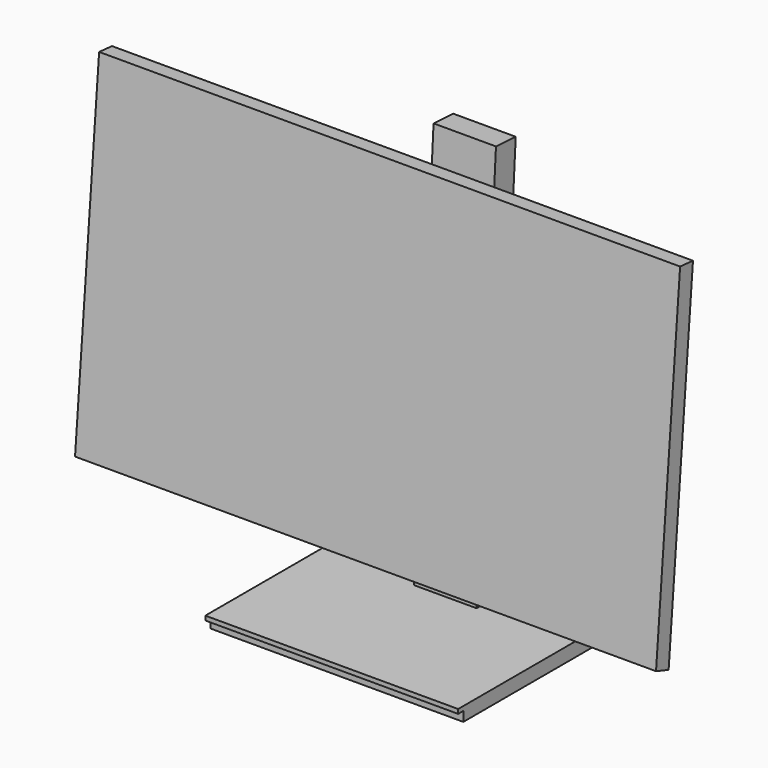
from build123d import *

# Parameters (mm, degrees)
PAD_DEPTH         = 270
PAD001_DEPTH      = 29
PAD002_DEPTH      = 117.5
POCKET_DEPTH      = 341.0745213347
POCKET_DEPTH_BACK = 71.6303346662


with BuildPart() as part:
    # Sketch001 → Pad (new body, symmetric)
    with BuildSketch(Plane.YZ):
        Polygon((-24.8576477137, 122.9970951405), (-9.9147272423, 121.6897589993), (12.9476758379, 58.8758227821), (22.9096228188, 58.0042653546), (5.6527857547, -139.2422848675), (-4.3091612262, -138.3707274401), (-38.1967657639, -201.5754205315), (-52.8330949144, -196.7637295572), align=None)
    extrude(amount=PAD_DEPTH, both=True)

    # Sketch002 → Pad001 (join, symmetric)
    with BuildSketch(Plane.YZ):
        with BuildLine():
            Line((62.4443669874, 107.4083042285), (85.4014673511, 106.0041878192))
            Line((85.4014673511, 106.0041878192), (62.9356048023, -261.309418))
            Line((62.9356048023, -261.309418), (39.892625, -261.309418))
            Line((39.892625, -261.309418), (52.1882123456, -60.2783419063))
            Line((34.8975714525, -60.2783419063), (52.1882123456, -60.2783419063))
            ThreePointArc((26.8824790431, -57.7511929769), (30.6955425365, -59.6315877978), (34.8975714525, -60.2783419063))
            Line((26.8824790431, -57.7511929769), (25.6252451745, -59.5467090202))
            Line((25.6252451745, -59.5467090202), (12.6252451745, -59.5467090202))
            Line((15.0656059715, -31.6532574736), (12.6252451745, -59.5467090202))
            Line((15.0656059715, -31.6532574736), (28.0656059715, -31.6532574736))
            Line((28.0656059715, -31.6532574736), (28.9919515436, -33.6398119639))
            ThreePointArc((34.8975714525, -32.3305675505), (31.8730687065, -32.6618044727), (28.9919515436, -33.6398119639))
            Line((34.8975714525, -32.3305675505), (53.8975714525, -32.3305675505))
            Line((53.8975714525, -32.3305675505), (62.4443669874, 107.4083042285))
        make_face()
    extrude(amount=PAD001_DEPTH, both=True)

    # Sketch003 → Pad002 (join, symmetric)
    with BuildSketch(Plane.YZ):
        Polygon((-92.107375, -261.309418), (101.892625, -261.309418), (101.892625, -265.309418), (95.892625, -265.309418), (95.892625, -274.309418), (-86.107375, -274.309418), (-86.107375, -265.309418), (-92.107375, -265.309418), align=None)
    extrude(amount=PAD002_DEPTH, both=True)

    # Sketch004 (on DatumPlane) → Pocket (cut, two sides)
    with BuildSketch(Plane(origin=(0, 5.210191812, 59.5527649186), x_dir=(0, -0.9961946981, 0.0871557427), z_dir=(0, 0.0871557427, 0.9961946981))) as pocket_sk:
        Polygon((20.4829600422, 270), (-7.7670399578, 209.4176794956), (-17.7670399578, 209.4176794956), (-17.7670399578, 270), align=None)
        Polygon((20.4829600422, -270), (-7.7670399578, -209.4176794956), (-17.7670399578, -209.4176794956), (-17.7670399578, -270), align=None)
    extrude(amount=-POCKET_DEPTH, mode=Mode.SUBTRACT)
    extrude(pocket_sk.sketch, amount=POCKET_DEPTH_BACK, mode=Mode.SUBTRACT)


solid = part.part
